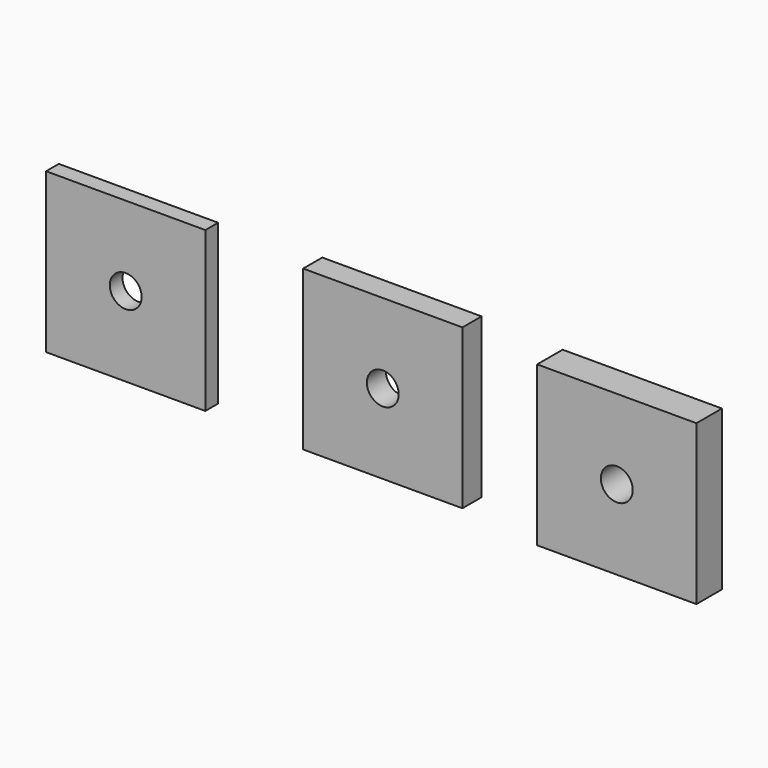
from build123d import *

# Parameters (mm, degrees)
F0_W     = 20
F0_H     = 20
F0_R     = 2
F1_DEPTH = 2
F2_DEPTH = 3
F3_DEPTH = 4


with BuildPart() as f1:
    # F0 (on Front) → F1 (new body)
    with BuildSketch(Plane.XZ):
        with Locations((-35.390915, 4.615962)):
            Rectangle(F0_W, F0_H)
        with Locations((-35.390915, 4.615962)):
            Circle(F0_R, mode=Mode.SUBTRACT)
    extrude(amount=F1_DEPTH)


with BuildPart() as f2:
    # F0 (on Front) → F2 (new body)
    with BuildSketch(Plane.XZ):
        with Locations((-2.311487, 5.021508)):
            Rectangle(F0_W, F0_H)
        with Locations((-2.311487, 5.021508)):
            Circle(F0_R, mode=Mode.SUBTRACT)
    extrude(amount=F2_DEPTH)


with BuildPart() as f3:
    # F0 (on Front) → F3 (new body)
    with BuildSketch(Plane.XZ):
        with Locations((27.87146, 4.651255)):
            Rectangle(F0_W, F0_H)
        with Locations((27.87146, 4.651255)):
            Circle(F0_R, mode=Mode.SUBTRACT)
    extrude(amount=F3_DEPTH)


solid = Compound([f1.part, f2.part, f3.part])
